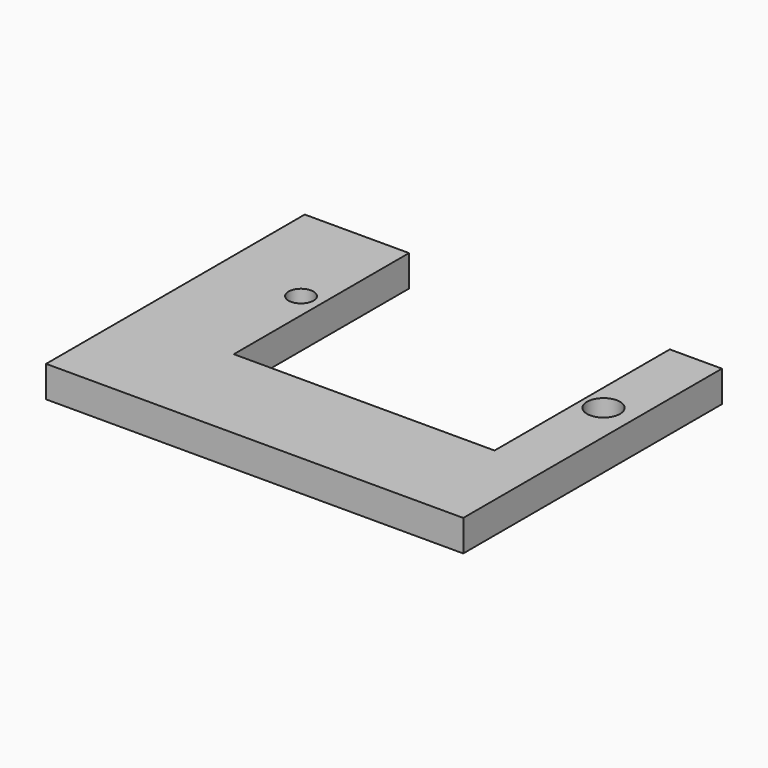
from build123d import *

# Parameters (mm, degrees)
F0_W     = 1
F0_H     = 2.1
F0_R     = 0.119447
F0_W_2   = 0.5
F0_R_2   = 0.158121
F1_DEPTH = 0.3


with BuildPart() as f1:
    # F0 (on Top) → F1 (new body)
    with BuildSketch(Plane.XY):
        with Locations((-62.559891, 28.345662)):
            Rectangle(F0_W, F0_H)
        with Locations((-62.255304, 28.345662)):
            Circle(F0_R, mode=Mode.SUBTRACT)
        Polygon((-62.059891, 27.295662), (-63.059891, 27.295662), (-63.059891, 26.295662), (-59.059891, 26.295662), (-59.059891, 27.295662), (-59.559891, 27.295662), align=None)
        with Locations((-59.309891, 28.345662)):
            Rectangle(F0_W_2, F0_H)
        with Locations((-59.355084, 28.345662)):
            Circle(F0_R_2, mode=Mode.SUBTRACT)
    extrude(amount=F1_DEPTH)


solid = f1.part
